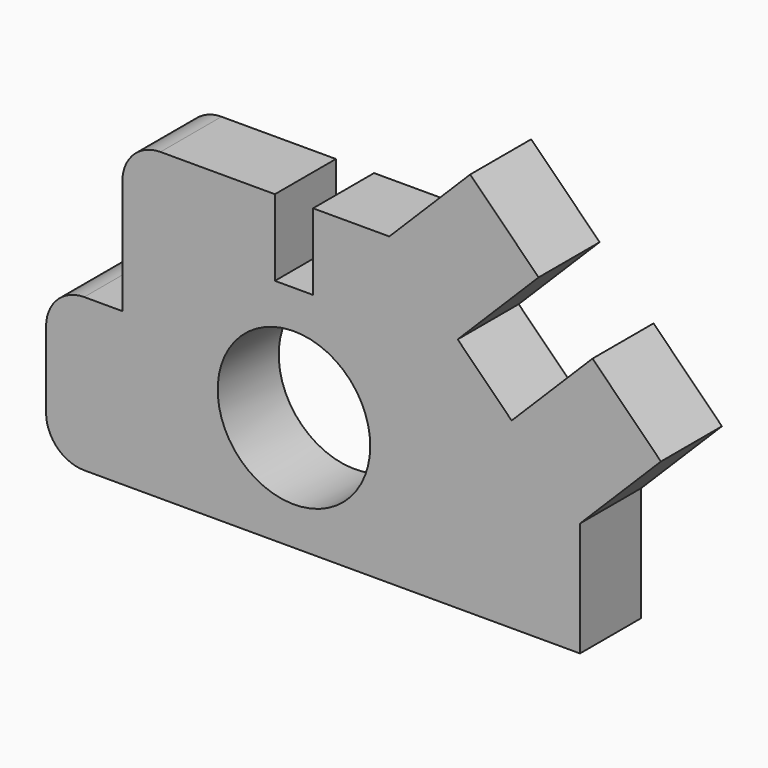
from build123d import *

# Parameters (mm, degrees)
F0_R     = 254
F1_DEPTH = 254


with BuildPart() as f1:
    # F0 (on Front) → F1 (new body)
    with BuildSketch(Plane.XZ):
        with BuildLine():
            ThreePointArc((0, 127), (37.197439, 37.197439), (127, 0))
            Line((127, 0), (1778, 0))
            Line((1778, 0), (1778, 381))
            Line((1778, 381), (2047.407684, 650.407684))
            Line((2047.407684, 650.407684), (1819.710257, 878.105111))
            Line((1819.710257, 878.105111), (1550.302573, 608.697427))
            Line((1550.302573, 608.697427), (1370.697451, 788.302549))
            Line((1370.697451, 788.302549), (1640.105134, 1057.710233))
            Line((1640.105134, 1057.710233), (1412.407707, 1285.40766))
            Line((1412.407707, 1285.40766), (1143, 1016))
            Line((1143, 1016), (889, 1016))
            Line((889, 1016), (889, 762))
            Line((889, 762), (762, 762))
            Line((762, 762), (762, 1016))
            Line((762, 1016), (381, 1016))
            ThreePointArc((381, 1016), (291.197439, 978.802561), (254, 889))
            Line((254, 889), (254, 508))
            Line((254, 508), (127, 508))
            ThreePointArc((127, 508), (37.197439, 470.802561), (0, 381))
            Line((0, 381), (0, 127))
        make_face()
        with Locations((825.5, 381)):
            Circle(F0_R, mode=Mode.SUBTRACT)
    extrude(amount=F1_DEPTH)


solid = f1.part
